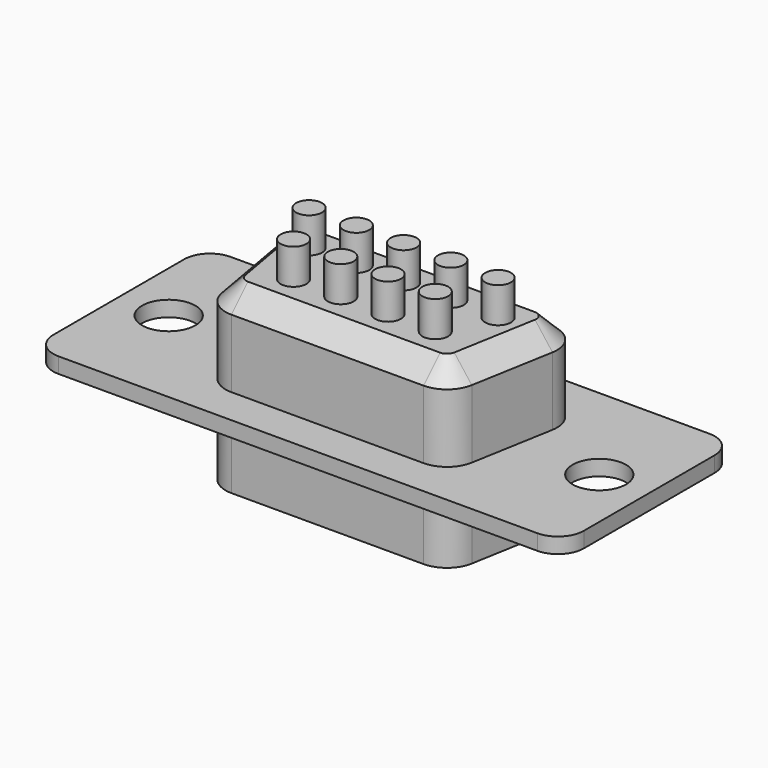
from build123d import *

# Parameters (mm, degrees)
F0_W      = 30.8
F0_H      = 12.5
F1_DEPTH  = 0.9
F2_R      = 1.5
F4_DEPTH  = 5.16
F5_R      = 1.7
F6_SIZE   = 1.2
F7_R      = 0.75
F8_DEPTH  = 2.05
F9_R      = 1.55
F10_DEPTH = 0.9


with BuildPart() as f1:
    # F0 (on Top) → F1 (new body)
    with BuildSketch(Plane.XY):
        Rectangle(F0_W, F0_H)
    extrude(amount=F1_DEPTH)

    # F2
    f2_edges = [f1.edges().sort_by_distance(p)[0] for p in [
        (-15.4, 6.25, 0.45),
        (15.4, 6.25, 0.45),
        (15.4, -6.25, 0.45),
        (-15.4, -6.25, 0.45),
    ]]
    fillet(f2_edges, radius=F2_R)

    # F3 (on face) → F4 (join, symmetric)
    with BuildSketch(Plane.XY.offset(0.9)):
        Polygon((8.45, 4.1), (-8.45, 4.1), (-7.0041187582, -4.1), (7.0041187582, -4.1), align=None)
    extrude(amount=F4_DEPTH, both=True)

    # F5
    f5_edges = [f1.edges().sort_by_distance(p)[0] for p in [
        (-8.45, 4.1, -2.13),
        (-8.45, 4.1, 3.48),
        (8.45, 4.1, -2.13),
        (8.45, 4.1, 3.48),
        (-7.004119, -4.1, -2.13),
        (-7.004119, -4.1, 3.48),
        (7.004119, -4.1, -2.13),
        (7.004119, -4.1, 3.48),
    ]]
    fillet(f5_edges, radius=F5_R)

    # F6
    f6_edges = [f1.edges().sort_by_distance(p)[0] for p in [
        (0, 4.1, 6.06),
    ]]
    chamfer(f6_edges, length=F6_SIZE)

    # F7 (on face) → F8 (join)
    with BuildSketch(Plane.XY.offset(6.06)):
        with Locations((-5.4864, 1.4224)):
            Circle(F7_R)
        with Locations((-2.7432, 1.4224)):
            Circle(F7_R)
        with Locations((0, 1.4224)):
            Circle(F7_R)
        with Locations((2.7432, 1.4224)):
            Circle(F7_R)
        with Locations((5.4864, 1.4224)):
            Circle(F7_R)
        with Locations((4.1148, -1.4224)):
            Circle(F7_R)
        with Locations((1.3716, -1.4224)):
            Circle(F7_R)
        with Locations((-1.3716, -1.4224)):
            Circle(F7_R)
        with Locations((-4.1148, -1.4224)):
            Circle(F7_R)
    extrude(amount=F8_DEPTH)

    # F9 (on face) → F10 (cut)
    with BuildSketch(Plane.XY.offset(0.9)):
        with Locations((-12.5, 0)):
            Circle(F9_R)
        with Locations((12.5, 0)):
            Circle(F9_R)
    extrude(amount=-F10_DEPTH, mode=Mode.SUBTRACT)


solid = f1.part
